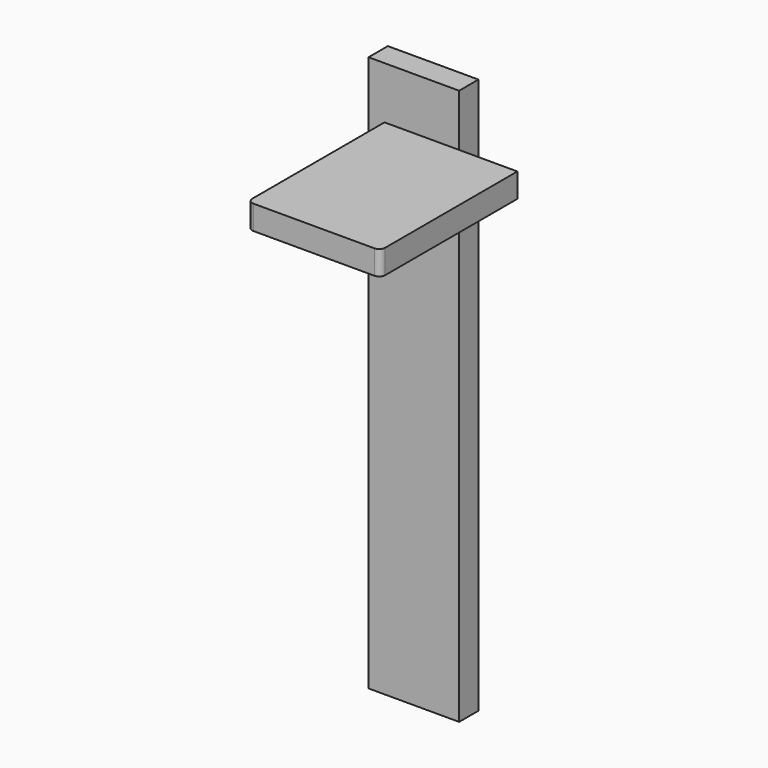
from build123d import *

# Parameters (mm, degrees)
BOX022_W     = 22
BOX022_H     = 28.35
BOX022_DEPTH = 4
FILLET009_R  = 1
BOX024_W     = 15
BOX024_H     = 4
BOX024_DEPTH = 92


with BuildPart() as fillet009:
    # Box022 → Box022 (new body)
    with BuildSketch(Plane(origin=(20.5, 26.2, 44.5), x_dir=(1, 0, 0), z_dir=(0, 0, 1))):
        with Locations((11, 14.175)):
            Rectangle(BOX022_W, BOX022_H)
    extrude(amount=BOX022_DEPTH)

    # Fillet009
    fillet009_edges = [fillet009.edges().sort_by_distance(p)[0] for p in [
        (20.5, 26.2, 46.5),
        (42.5, 26.2, 46.5),
    ]]
    fillet(fillet009_edges, radius=FILLET009_R)


with BuildPart() as fusion002008006003:
    # Box024 → Box024 (new body)
    with BuildSketch(Plane(origin=(7.5, 67.5, -43.5), x_dir=(1, 0, 0), z_dir=(0, 0, 1))):
        with Locations((7.5, 2)):
            Rectangle(BOX024_W, BOX024_H)
    extrude(amount=BOX024_DEPTH)

    # Fusion002008006003: union Fillet009
    add(fillet009.part)


solid = fusion002008006003.part
